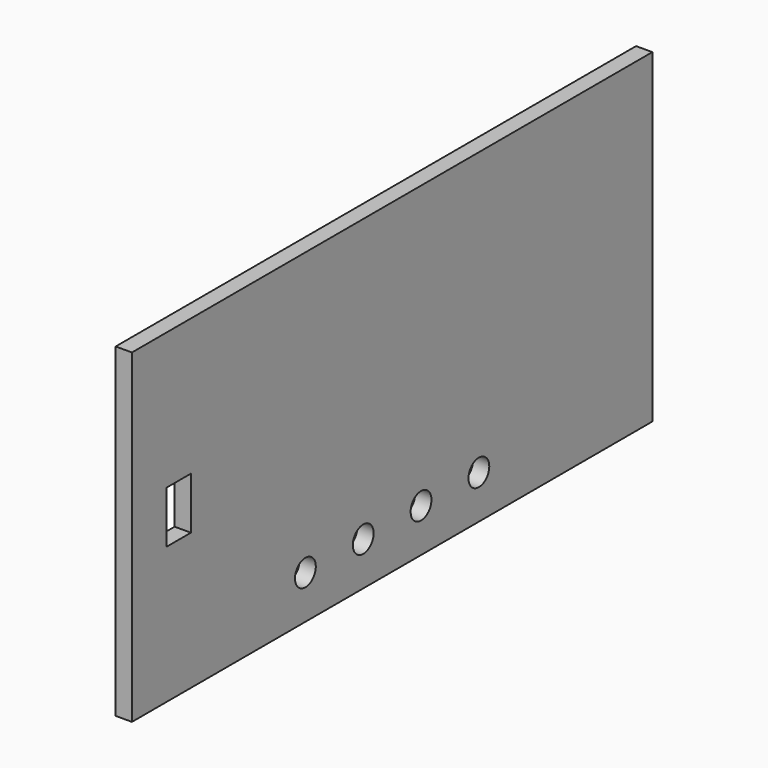
from build123d import *

# Parameters (mm, degrees)
SKETCH_W   = 600
SKETCH_H   = 300
SKETCH_R   = 12
SKETCH_W_2 = 28
SKETCH_H_2 = 48
PAD_DEPTH  = 15


with BuildPart() as part:
    # Sketch → Pad (new body)
    with BuildSketch(Plane.YZ):
        with Locations((300, 150)):
            Rectangle(SKETCH_W, SKETCH_H)
        with Locations((200, 40)):
            Circle(SKETCH_R, mode=Mode.SUBTRACT)
        with Locations((266.666667, 40)):
            Circle(SKETCH_R, mode=Mode.SUBTRACT)
        with Locations((333.333333, 40)):
            Circle(SKETCH_R, mode=Mode.SUBTRACT)
        with Locations((400, 40)):
            Circle(SKETCH_R, mode=Mode.SUBTRACT)
        with Locations((54, 150)):
            Rectangle(SKETCH_W_2, SKETCH_H_2, mode=Mode.SUBTRACT)
    extrude(amount=PAD_DEPTH)


solid = part.part
